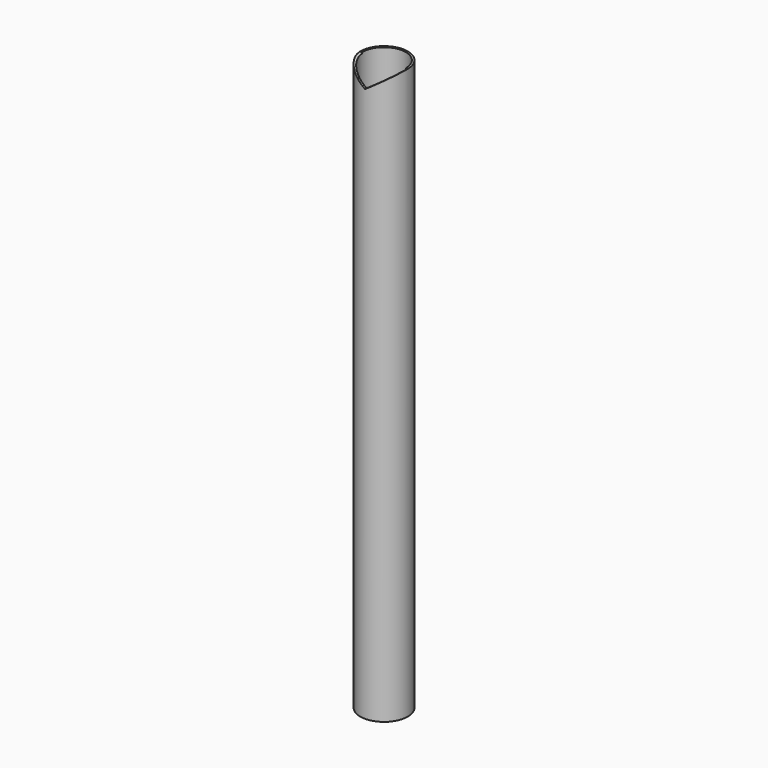
from build123d import *

# Parameters (mm, degrees)
F0_R     = 38.1
F0_R_2   = 34.925
F1_DEPTH = 914.4
F3_DEPTH = 38.101


with BuildPart() as f1:
    # F0 (on Top) → F1 (new body)
    with BuildSketch(Plane.XY):
        Circle(F0_R)
        Circle(F0_R_2, mode=Mode.SUBTRACT)
    extrude(amount=F1_DEPTH)

    # F2 (on Front) → F3 (cut, through all)
    with BuildSketch(Plane.XZ):
        Polygon((38.1, 914.4), (-38.1, 914.4), (0, 889), align=None)
    extrude(amount=F3_DEPTH, mode=Mode.SUBTRACT)


solid = f1.part
